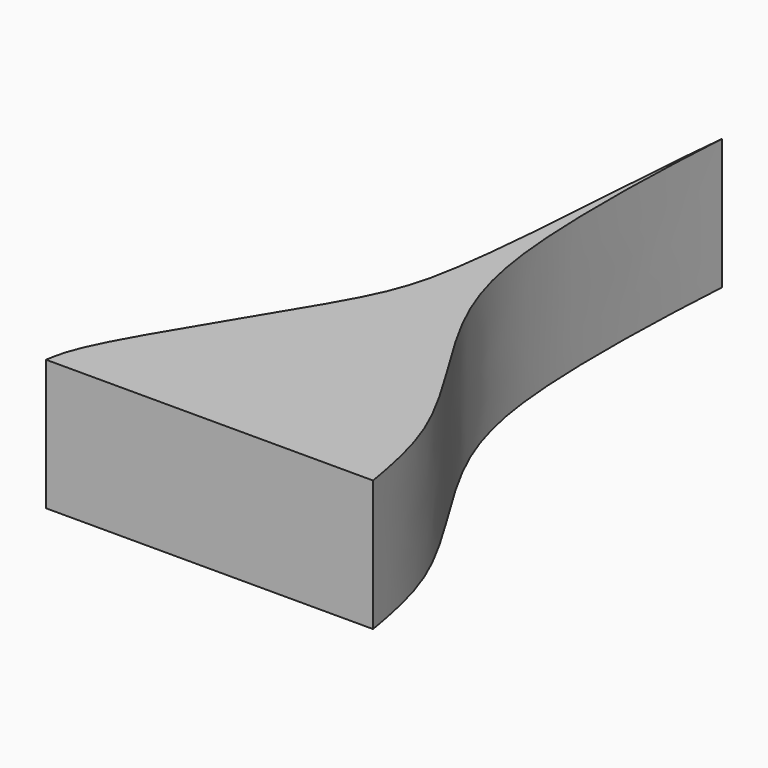
from build123d import *

# Parameters (mm, degrees)
F1_DEPTH = 25.4


with BuildPart() as f1:
    # F0 (on Top) → F1 (new body)
    with BuildSketch(Plane.XY):
        with BuildLine():
            add(Edge.make_bspline(
                [(0, 120.65), (-0.6990841377, 109.859090752), (-2.4723789951, 71.2208044922), (7.3096290179, 45.9196668373), (25.15876895, 20.6573149279), (27.746499584, 5.9213700542), (28.773438115, 0)],
                knots=[0, 0, 0, 0, 0.3097991905, 0.5526800492, 0.7975415578, 1, 1, 1, 1], degree=3))
            add(Edge.make_bspline(
                [(0, 120.65), (-1.7344344411, 105.1734553785), (-3.2828607242, 60.7029060839), (-10.9459932552, 43.1045762424), (-33.3807399756, 8.4451787615), (-34.4396469695, 1.8447885138), (-34.726561885, 0)],
                knots=[0, 0, 0, 0, 0.3544637388, 0.5790471764, 0.8701117498, 1, 1, 1, 1], degree=3))
            Line((-34.726561885, 0), (28.773438115, 0))
        make_face()
    extrude(amount=F1_DEPTH)


solid = f1.part
